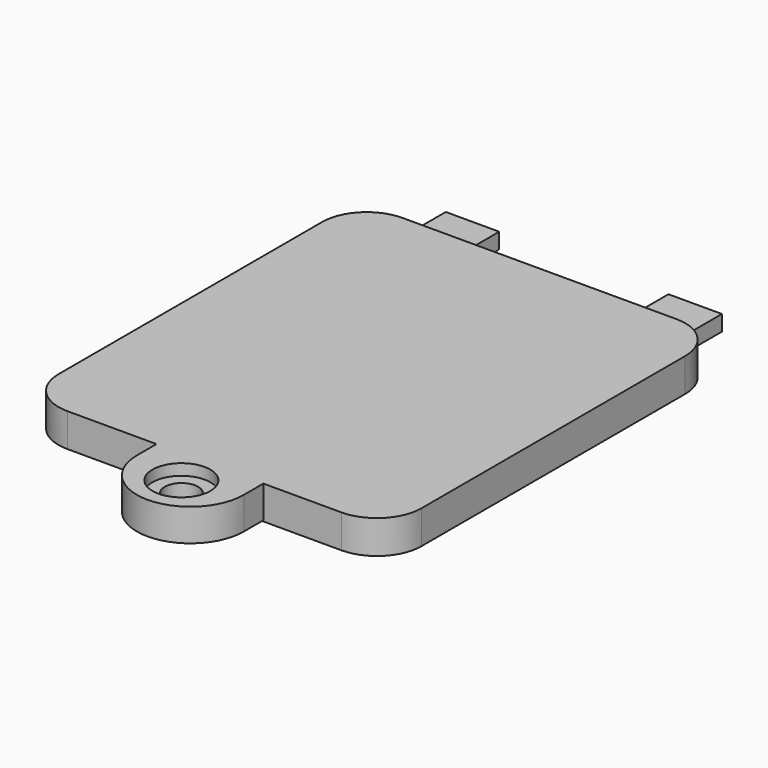
from build123d import *

# Parameters (mm, degrees)
PAD010_DEPTH    = 3
SKETCH044_W     = 15.2
SKETCH044_H     = 5.2
POCKET033_DEPTH = 1.6
SKETCH045_W     = 4.8
SKETCH045_H     = 6
PAD011_DEPTH    = 1.4
PAD012_DEPTH    = 2.9
SKETCH047_R     = 1.5
POCKET034_DEPTH = 5
SKETCH048_R     = 2.6
POCKET035_DEPTH = 1


with BuildPart() as part:
    # Sketch043 → Pad010 (new body)
    with BuildSketch(Plane.XY):
        with BuildLine():
            Line((-48.2, -10.2), (-72.8, -10.2))
            ThreePointArc((-72.8, -10.2), (-75.628427, -11.371573), (-76.8, -14.2))
            Line((-76.8, -14.2), (-76.8, -43.8))
            ThreePointArc((-76.8, -43.8), (-75.628427, -46.628427), (-72.8, -47.8))
            Line((-72.8, -47.8), (-48.2, -47.8))
            ThreePointArc((-48.2, -47.8), (-45.371573, -46.628427), (-44.2, -43.8))
            Line((-44.2, -43.8), (-44.2, -14.2))
            ThreePointArc((-44.2, -14.2), (-45.371573, -11.371573), (-48.2, -10.2))
        make_face()
    extrude(amount=PAD010_DEPTH)

    # Sketch044 (on Face9 of Pad010) → Pocket033 (cut)
    with BuildSketch(Plane(origin=(0, 0, 0), x_dir=(1, 0, 0), z_dir=(0, 0, -1))):
        with Locations((-60.5, 12.6)):
            Rectangle(SKETCH044_W, SKETCH044_H)
    extrude(amount=-POCKET033_DEPTH, mode=Mode.SUBTRACT)

    # Sketch045 (on Face2 of Pocket033) → Pad011 (join)
    with BuildSketch(Plane(origin=(0, 0, 0), x_dir=(1, 0, 0), z_dir=(0, 0, -1))):
        with Locations((-50.5, 8.2)):
            Rectangle(SKETCH045_W, SKETCH045_H)
        with Locations((-70.5, 8.2)):
            Rectangle(SKETCH045_W, SKETCH045_H)
    extrude(amount=-PAD011_DEPTH)

    # Sketch046 (on Face10 of Pad011) → Pad012 (join)
    with BuildSketch(Plane.XY.offset(3)):
        with BuildLine():
            ThreePointArc((-64.8, -50), (-60, -54.8), (-55.2, -50))
            Line((-55.2, -47.8), (-55.2, -50))
            Line((-64.8, -47.8), (-55.2, -47.8))
            Line((-64.8, -50), (-64.8, -47.8))
        make_face()
    extrude(amount=-PAD012_DEPTH)

    # Sketch047 (on Face24 of Pad012) → Pocket034 (cut)
    with BuildSketch(Plane.XY.offset(3)):
        with Locations((-60, -51)):
            Circle(SKETCH047_R)
    extrude(amount=-POCKET034_DEPTH, mode=Mode.SUBTRACT)

    # Sketch048 (on Face5 of Pocket034) → Pocket035 (cut)
    with BuildSketch(Plane.XY.offset(3)):
        with Locations((-60, -51)):
            Circle(SKETCH048_R)
    extrude(amount=-POCKET035_DEPTH, mode=Mode.SUBTRACT)


with BuildPart() as part_1:
    # Body002 placement: moved
    add(part.part.moved(Location((0, 0, 35))))


solid = part_1.part
